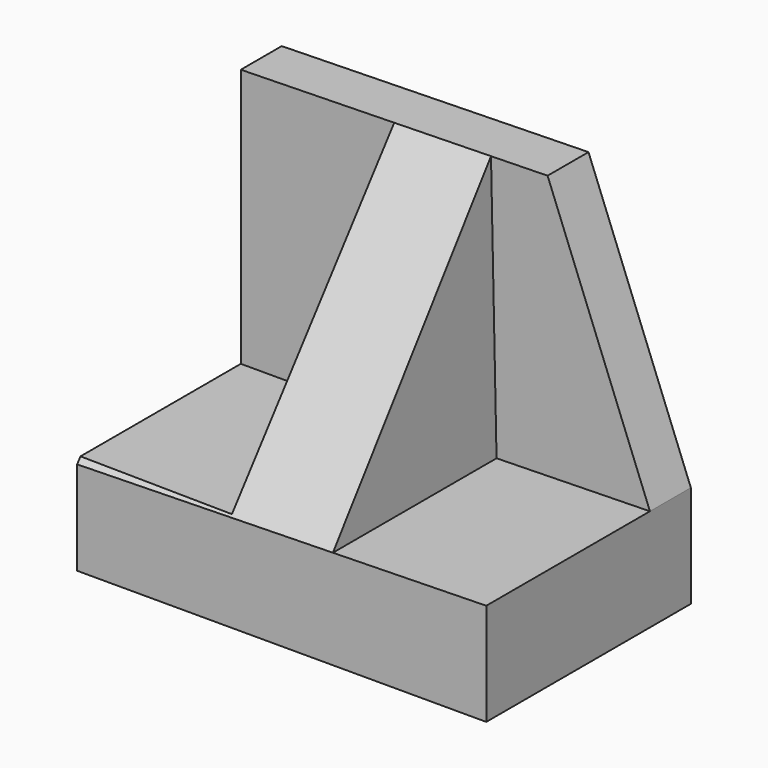
from build123d import *

# Parameters (mm, degrees)
F1_DEPTH = 31.75
F3_DEPTH = 25.4
F5_DEPTH = 32.0061992138


with BuildPart() as f1:
    # F0 (on Front) → F1 (new body)
    with BuildSketch(Plane.XZ):
        Polygon((-19.3872701909, 48.5464597168), (-57.4788887117, 47.7473361589), (-57.4788887117, 3.2973361589), (-6.6788887117, 3.2973361589), (-6.6788887117, 15.9973361589), align=None)
    extrude(amount=F1_DEPTH)

    # F2 (on face) → F3 (cut)
    with BuildSketch(Plane.XZ.offset(31.75)):
        Polygon((-38.4288887117, 15.59777438), (-38.4288887117, 48.1469858553), (-57.4788887117, 47.7473361589), (-57.4788887117, 15.59777438), align=None)
        Polygon((-25.7246979722, 15.59777438), (-6.6788887117, 15.9973361589), (-19.3872701909, 48.5464597168), (-26.4128359261, 48.3990704667), align=None)
    extrude(amount=-F3_DEPTH, mode=Mode.SUBTRACT)

    # F4 (on face) → F5 (cut, through all)
    with BuildSketch(Plane(origin=(-25.3862995067, 0, -0.5325788394), x_dir=(0, 1, 0), z_dir=(0.9997800137, 0, 0.0209743716))):
        Polygon((-31.75, 16.1339024573), (-6.35, 48.9424159686), (-31.75, 48.9424159686), align=None)
    extrude(amount=-F5_DEPTH, mode=Mode.SUBTRACT)


solid = f1.part
